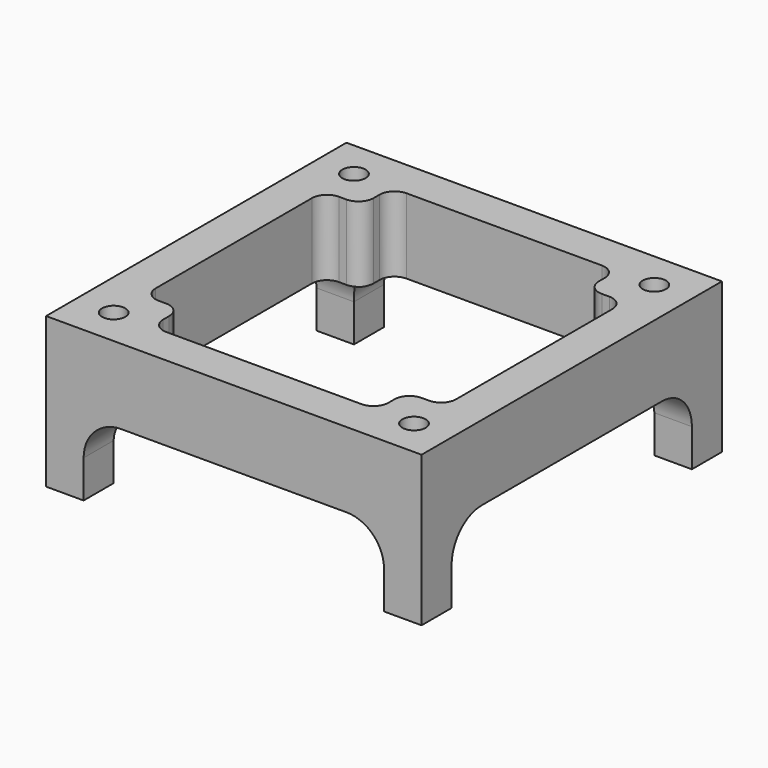
from build123d import *

# Parameters (mm, degrees)
SKETCH022_W             = 50
SKETCH022_H             = 50
PAD004_DEPTH            = 20
POCKET019_DEPTH         = 20.001
POCKET020_DEPTH         = 50.001
POCKET021_DEPTH         = 50.001
SKETCH026_R             = 1.55
POCKET022_DEPTH         = 5
SKETCH027_R             = 1.55
POCKET023_DEPTH         = 3
BODY005_PLACEMENT_ANGLE = 90


with BuildPart() as part:
    # Sketch022 → Pad004 (new body)
    with BuildSketch(Plane.XY):
        Rectangle(SKETCH022_W, SKETCH022_H)
    extrude(amount=PAD004_DEPTH)

    # Sketch023 (on Face6 of Pad004) → Pocket019 (cut, through all)
    with BuildSketch(Plane.XY.offset(20)):
        with BuildLine():
            Line((-18, 15), (-17, 15))
            ThreePointArc((-17, 15), (-15.585786, 15.585786), (-15, 17))
            Line((-15, 17), (-15, 18))
            ThreePointArc((-13, 20), (-14.414214, 19.414214), (-15, 18))
            Line((-13, 20), (13, 20))
            ThreePointArc((15, 18), (14.414214, 19.414214), (13, 20))
            Line((15, 18), (15, 17))
            ThreePointArc((15, 17), (15.585786, 15.585786), (17, 15))
            Line((17, 15), (18, 15))
            ThreePointArc((20, 13), (19.414214, 14.414214), (18, 15))
            Line((20, 13), (20, -13))
            ThreePointArc((18, -15), (19.414214, -14.414214), (20, -13))
            Line((18, -15), (17, -15))
            ThreePointArc((17, -15), (15.585786, -15.585786), (15, -17))
            Line((15, -17), (15, -18))
            ThreePointArc((13, -20), (14.414214, -19.414214), (15, -18))
            Line((13, -20), (-13, -20))
            ThreePointArc((-15, -18), (-14.414214, -19.414214), (-13, -20))
            Line((-15, -18), (-15, -17))
            ThreePointArc((-15, -17), (-15.585786, -15.585786), (-17, -15))
            Line((-17, -15), (-18, -15))
            ThreePointArc((-20, -13), (-19.414214, -14.414214), (-18, -15))
            Line((-20, -13), (-20, 13))
            ThreePointArc((-18, 15), (-19.414214, 14.414214), (-20, 13))
        make_face()
    extrude(amount=-POCKET019_DEPTH, mode=Mode.SUBTRACT)

    # Sketch024 (on Face3 of Pocket019) → Pocket020 (cut, through all)
    with BuildSketch(Plane.YZ.offset(25)):
        with BuildLine():
            Line((-15, 10), (15, 10))
            ThreePointArc((20, 5), (18.535534, 8.535534), (15, 10))
            Line((20, 5), (20, 0))
            Line((20, 0), (-20, 0))
            Line((-20, 0), (-20, 5))
            ThreePointArc((-15, 10), (-18.535534, 8.535534), (-20, 5))
        make_face()
    extrude(amount=-POCKET020_DEPTH, mode=Mode.SUBTRACT)

    # Sketch025 (on Face6 of Pocket019) → Pocket021 (cut, through all)
    with BuildSketch(Plane.XZ.offset(25)):
        with BuildLine():
            Line((-15, 10), (15, 10))
            ThreePointArc((20, 5), (18.535534, 8.535534), (15, 10))
            Line((20, 5), (20, 0))
            Line((20, 0), (-20, 0))
            Line((-20, 0), (-20, 5))
            ThreePointArc((-15, 10), (-18.535534, 8.535534), (-20, 5))
        make_face()
    extrude(amount=-POCKET021_DEPTH, mode=Mode.SUBTRACT)

    # Sketch026 → Pocket022 (cut)
    with BuildSketch(Plane.XY.offset(20)):
        with Locations((-20, 20)):
            Circle(SKETCH026_R)
        with Locations((20, 20)):
            Circle(SKETCH026_R)
        with Locations((20, -20)):
            Circle(SKETCH026_R)
        with Locations((-20, -20)):
            Circle(SKETCH026_R)
    extrude(amount=-POCKET022_DEPTH, mode=Mode.SUBTRACT)

    # Sketch027 (on Face27 of Pocket022) → Pocket023 (cut)
    with BuildSketch(Plane.XZ.offset(25)):
        with Locations((-20, 14)):
            Circle(SKETCH027_R)
        with Locations((20, 14)):
            Circle(SKETCH027_R)
    extrude(amount=-POCKET023_DEPTH, mode=Mode.SUBTRACT)


with BuildPart() as part_1:
    # Body005 placement: moved
    add(part.part.moved(Location((25, 85, 0))).rotate(Axis((25, 85, 0), (0, 0, -1)), BODY005_PLACEMENT_ANGLE))


solid = part_1.part
